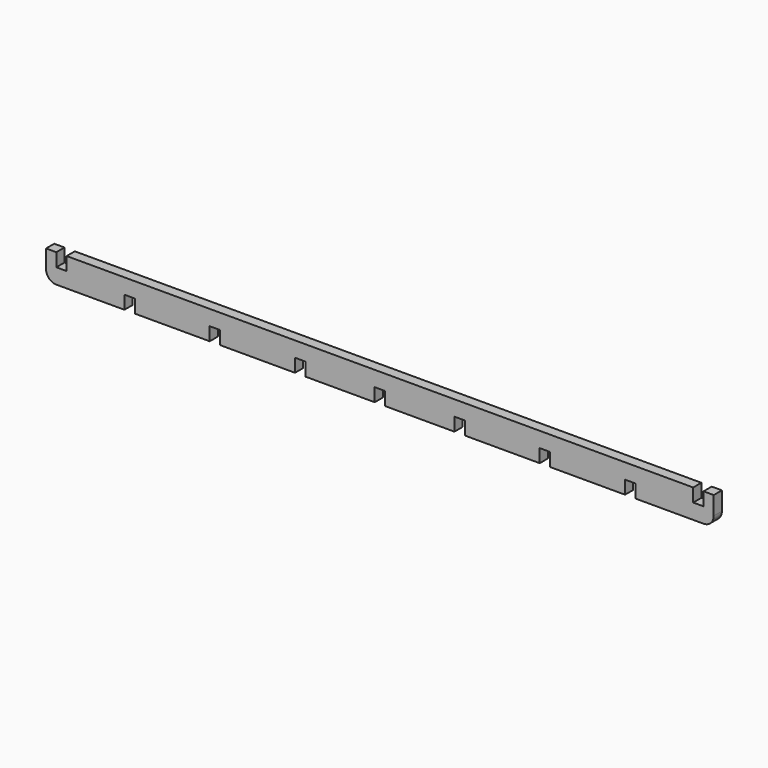
from build123d import *

# Parameters (mm, degrees)
F1_DEPTH = 3


with BuildPart() as f1:
    # F0 (on Front) → F1 (new body)
    with BuildSketch(Plane.XZ):
        with BuildLine():
            Line((-71.96, 3.9), (-71.96, 0))
            Line((-71.96, 0), (-49.96, 0))
            Line((-49.96, 0), (-49.96, 3.9))
            Line((-49.96, 3.9), (-46.92, 3.9))
            Line((-46.92, 3.9), (-46.92, 0))
            Line((-46.92, 0), (-24.92, 0))
            Line((-24.92, 0), (-24.92, 3.9))
            Line((-24.92, 3.9), (-21.88, 3.9))
            Line((-21.88, 3.9), (-21.88, 0))
            Line((-21.88, 0), (-1.52, 0))
            Line((-1.52, 0), (-1.52, 3.9))
            Line((-1.52, 3.9), (1.52, 3.9))
            Line((1.52, 3.9), (1.52, 0))
            Line((1.52, 0), (21.88, 0))
            Line((21.88, 0), (21.88, 3.9))
            Line((21.88, 3.9), (24.92, 3.9))
            Line((24.92, 3.9), (24.92, 0))
            Line((24.92, 0), (46.92, 0))
            Line((46.92, 0), (46.92, 3.9))
            Line((46.92, 3.9), (49.96, 3.9))
            Line((49.96, 3.9), (49.96, 0))
            Line((49.96, 0), (71.96, 0))
            Line((71.96, 0), (71.96, 3.9))
            Line((71.96, 3.9), (75, 3.9))
            Line((75, 3.9), (75, 0))
            Line((75, 0), (95, 0))
            ThreePointArc((95, 0), (97.12132, 0.87868), (98, 3))
            Line((98, 3), (98, 8.38))
            Line((98, 8.38), (95, 8.38))
            Line((95, 8.38), (95, 4.48))
            Line((95, 4.48), (91.96, 4.48))
            Line((91.96, 4.48), (91.96, 8.38))
            Line((91.96, 8.38), (-91.96, 8.38))
            Line((-91.96, 8.38), (-91.96, 4.48))
            Line((-91.96, 4.48), (-95, 4.48))
            Line((-95, 4.48), (-95, 8.38))
            Line((-95, 8.38), (-98, 8.38))
            Line((-98, 8.38), (-98, 3))
            ThreePointArc((-98, 3), (-97.12132, 0.87868), (-95, 0))
            Line((-95, 0), (-75, 0))
            Line((-75, 0), (-75, 3.9))
            Line((-75, 3.9), (-71.96, 3.9))
        make_face()
    extrude(amount=F1_DEPTH)


solid = f1.part
